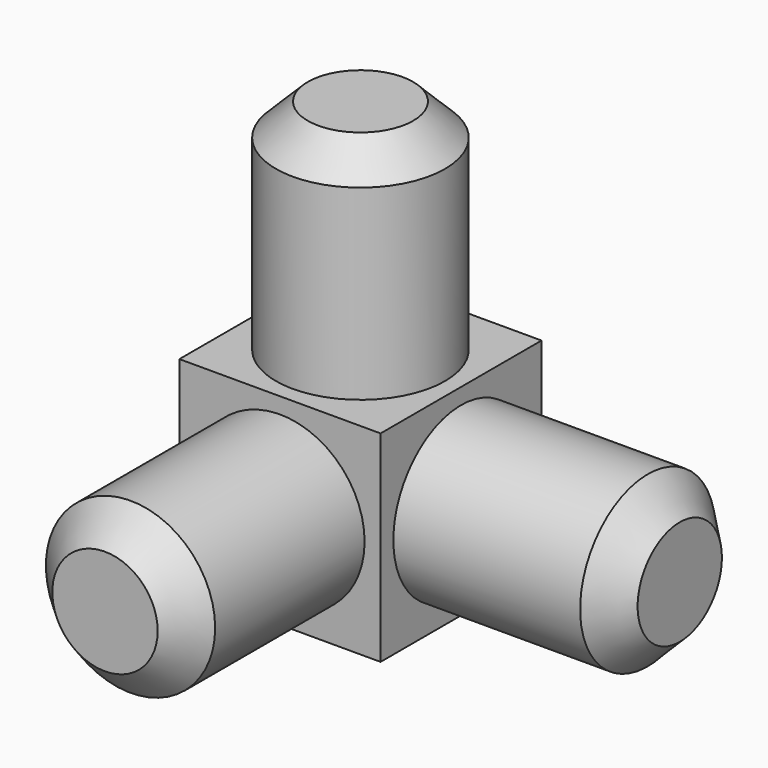
from build123d import *

# Parameters (mm, degrees)
F2_R     = 2.65
F5_DEPTH = 10
F4_R     = 2.65
F6_DEPTH = 10
F3_R     = 2.65
F7_DEPTH = 10
F8_W     = 6.3
F8_H     = 6.3
F9_DEPTH = 3.15
F10_R    = 1
F11_SIZE = 1


with BuildPart() as f5:
    # F2 (on Front) → F5 (new body)
    with BuildSketch(Plane.XZ):
        Circle(F2_R)
    extrude(amount=F5_DEPTH)

    # F4 (on Top) → F6 (join)
    with BuildSketch(Plane.XY):
        Circle(F4_R)
    extrude(amount=F6_DEPTH)

    # F3 (on Right) → F7 (join)
    with BuildSketch(Plane.YZ):
        Circle(F3_R)
    extrude(amount=F7_DEPTH)

    # F8 (on face) → F9 (join, symmetric)
    with BuildSketch(Plane(origin=(0, 0, 0), x_dir=(1, 0, 0), z_dir=(0, 0, -1))):
        Rectangle(F8_W, F8_H)
        with BuildLine():
            Line((-2.65, 0), (0, 0))
            Line((0, 0), (0, -2.65))
            ThreePointArc((0, -2.65), (-1.8738329701, -1.8738329701), (-2.65, 0))
        make_face(mode=Mode.SUBTRACT)
        Rectangle(F8_W, F8_H)
        with BuildLine():
            Line((-2.65, 0), (0, 0))
            Line((0, 0), (0, -2.65))
            ThreePointArc((0, -2.65), (-1.8738329701, -1.8738329701), (-2.65, 0))
        make_face(mode=Mode.SUBTRACT)
        with BuildLine():
            Line((0, -2.65), (0, 0))
            Line((0, 0), (-2.65, 0))
            ThreePointArc((-2.65, 0), (-1.8738329701, -1.8738329701), (0, -2.65))
        make_face()
    extrude(amount=F9_DEPTH, both=True)

    # F10
    f10_edges = [f5.edges().sort_by_distance(p)[0] for p in [
        (0, 3.15, -3.15),
        (-3.15, 3.15, 0),
        (-3.15, 0, -3.15),
    ]]
    fillet(f10_edges, radius=F10_R)

    # F11
    f11_edges = [f5.edges().sort_by_distance(p)[0] for p in [
        (10, -2.65, 0),
        (-2.65, 0, 10),
        (-2.65, -10, 0),
    ]]
    chamfer(f11_edges, length=F11_SIZE)


solid = f5.part
